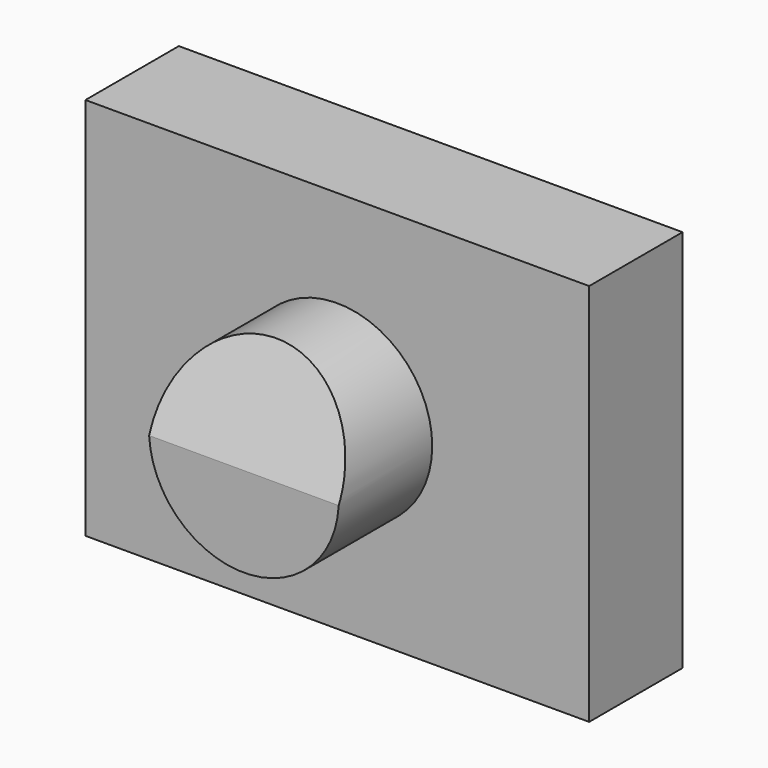
from build123d import *

# Parameters (mm, degrees)
F0_W     = 109.595508
F0_H     = 83.483816
F1_DEPTH = 25.4
F2_R     = 20.651308
F3_DEPTH = 25.4
F5_DEPTH = 25.4


with BuildPart() as f1:
    # F0 (on Front) → F1 (new body)
    with BuildSketch(Plane.XZ):
        Rectangle(F0_W, F0_H)
    extrude(amount=F1_DEPTH)

    # F2 (on face) → F3 (join)
    with BuildSketch(Plane.XZ.offset(25.4)):
        Circle(F2_R)
    extrude(amount=F3_DEPTH)

    # F4 (on Right) → F5 (cut, symmetric)
    with BuildSketch(Plane.YZ):
        Polygon((-65.909445, 37.025604), (-65.909445, -38.188711), (-35.280939, 37.025604), align=None)
    extrude(amount=F5_DEPTH, both=True, mode=Mode.SUBTRACT)


solid = f1.part
